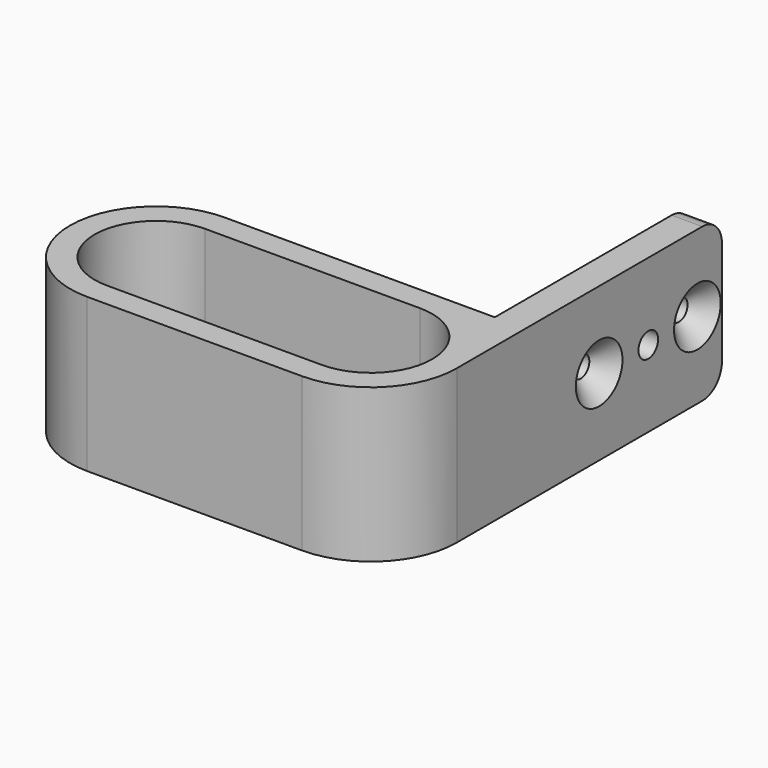
from build123d import *

# Parameters (mm, degrees)
PAD_DEPTH       = 25
FILLET_R        = 4
SKETCH001_R     = 2
SKETCH001_R_2   = 1.75
POCKET_DEPTH    = 63.001
CHAMFER_SIZE    = 3
CHAMFER001_SIZE = 3


with BuildPart() as part:
    # Sketch → Pad (new body)
    with BuildSketch(Plane.XY):
        with BuildLine():
            ThreePointArc((-17.5, 14), (-31.5, 0), (-17.5, -14))
            Line((-17.5, -14), (17.5, -14))
            ThreePointArc((17.5, -14), (27.399495, -9.899495), (31.5, 0))
            Line((31.5, 0), (31.5, 54))
            Line((26.5, 54), (31.5, 54))
            Line((26.5, 14), (26.5, 54))
            Line((-17.5, 14), (26.5, 14))
        make_face()
        with BuildLine():
            ThreePointArc((-17.5, 10), (-27.5, 0), (-17.5, -10))
            Line((-17.5, -10), (17.5, -10))
            ThreePointArc((17.5, -10), (27.5, 0), (17.5, 10))
            Line((-17.5, 10), (17.5, 10))
        make_face(mode=Mode.SUBTRACT)
    extrude(amount=PAD_DEPTH)

    # Fillet
    fillet_edges = [part.edges().sort_by_distance(p)[0] for p in [
        (29, 54, 0),
        (29, 54, 25),
    ]]
    fillet(fillet_edges, radius=FILLET_R)

    # Sketch001 (on Face8 of Fillet) → Pocket (cut, through all)
    with BuildSketch(Plane.YZ.offset(31.5)):
        with Locations((39, 12.5)):
            Circle(SKETCH001_R)
        with Locations((49, 12.5)):
            Circle(SKETCH001_R_2)
        with Locations((29, 12.5)):
            Circle(SKETCH001_R_2)
    extrude(amount=-POCKET_DEPTH, mode=Mode.SUBTRACT)

    # Chamfer
    chamfer_edges = [part.edges().sort_by_distance(p)[0] for p in [
        (31.5, 27.25, 12.5),
    ]]
    chamfer(chamfer_edges, length=CHAMFER_SIZE)

    # Chamfer001
    chamfer001_edges = [part.edges().sort_by_distance(p)[0] for p in [
        (31.5, 47.25, 12.5),
    ]]
    chamfer(chamfer001_edges, length=CHAMFER001_SIZE)


solid = part.part
